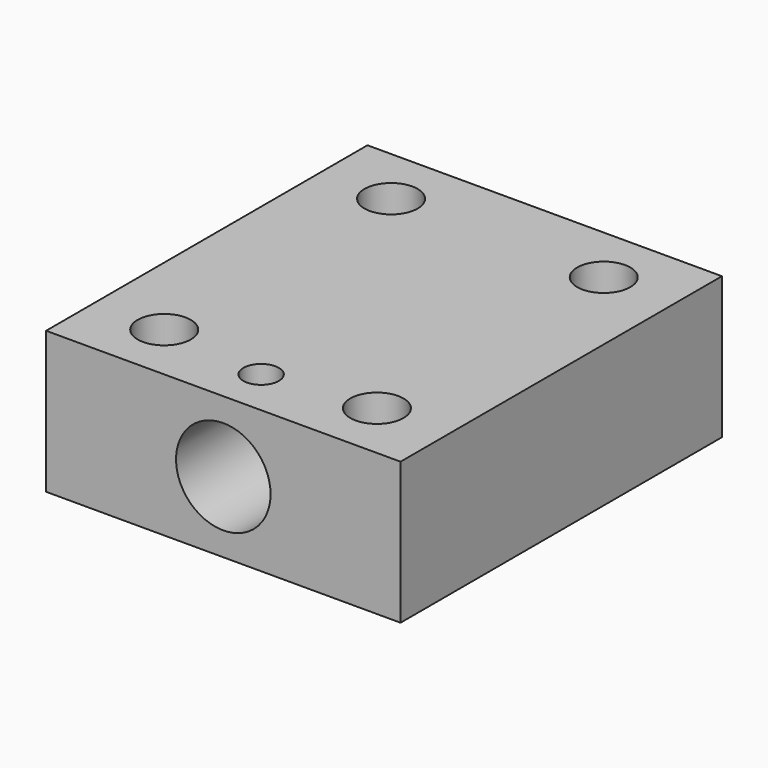
from build123d import *

# Parameters (mm, degrees)
F0_W     = 30
F0_H     = 34
F1_DEPTH = 12
F2_R     = 2.25
F3_DEPTH = 12.001
F4_R     = 4
F5_DEPTH = 12.5
F6_R     = 1.5
F7_DEPTH = 6


with BuildPart() as f1:
    # F0 (on Top) → F1 (new body)
    with BuildSketch(Plane.XY):
        with Locations((15, 17)):
            Rectangle(F0_W, F0_H)
    extrude(amount=F1_DEPTH)

    # F2 (on face) → F3 (cut, through all)
    with BuildSketch(Plane.XY.offset(12)):
        with Locations((6, 29)):
            Circle(F2_R)
        with Locations((24, 29)):
            Circle(F2_R)
        with Locations((24, 5)):
            Circle(F2_R)
        with Locations((6, 5)):
            Circle(F2_R)
    extrude(amount=-F3_DEPTH, mode=Mode.SUBTRACT)

    # F4 (on face) → F5 (cut)
    with BuildSketch(Plane.XZ):
        with Locations((15, 6)):
            Circle(F4_R)
    extrude(amount=-F5_DEPTH, mode=Mode.SUBTRACT)

    # F6 (on face) → F7 (cut)
    with BuildSketch(Plane.XY.offset(12)):
        with Locations((15, 4)):
            Circle(F6_R)
    extrude(amount=-F7_DEPTH, mode=Mode.SUBTRACT)


solid = f1.part
